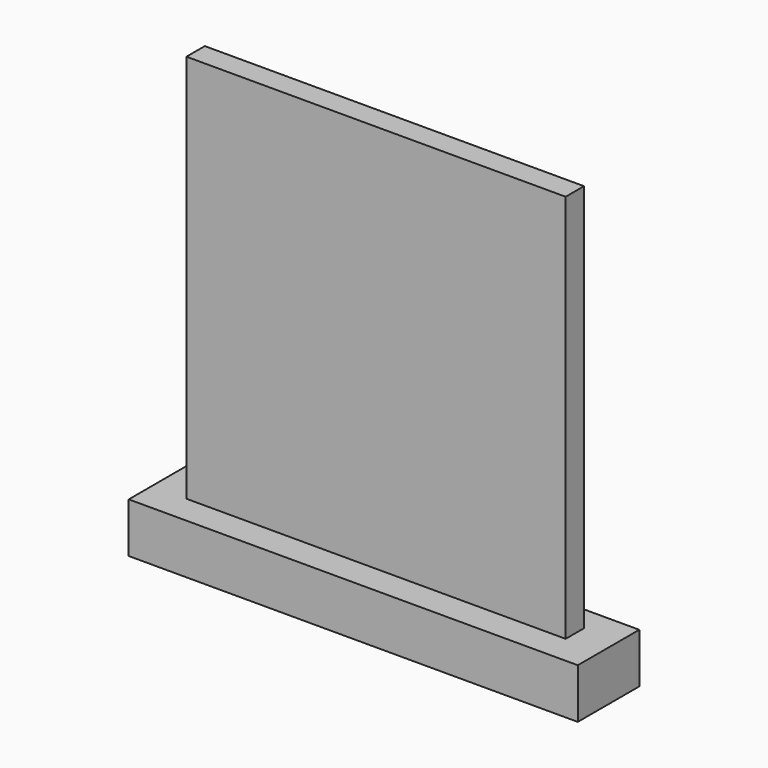
from build123d import *

# Parameters (mm, degrees)
F0_W     = 48.26
F0_H     = 2.921
F1_DEPTH = 55.88
F0_W_2   = 57.15
F0_H_2   = 9.779
F2_DEPTH = 6.35


with BuildPart() as f1:
    # F0 (on Top) → F1 (new body)
    with BuildSketch(Plane.XY):
        Rectangle(F0_W, F0_H)
    extrude(amount=F1_DEPTH)

    # F0 (on Top) → F2 (join)
    with BuildSketch(Plane.XY):
        with Locations((0.0482, -0.254)):
            Rectangle(F0_W_2, F0_H_2)
        Rectangle(F0_W, F0_H, mode=Mode.SUBTRACT)
    extrude(amount=F2_DEPTH)


with BuildPart() as f3_1:
    # F3: copy of F1
    add(f1.part)


solid = Compound([f1.part, f3_1.part])
